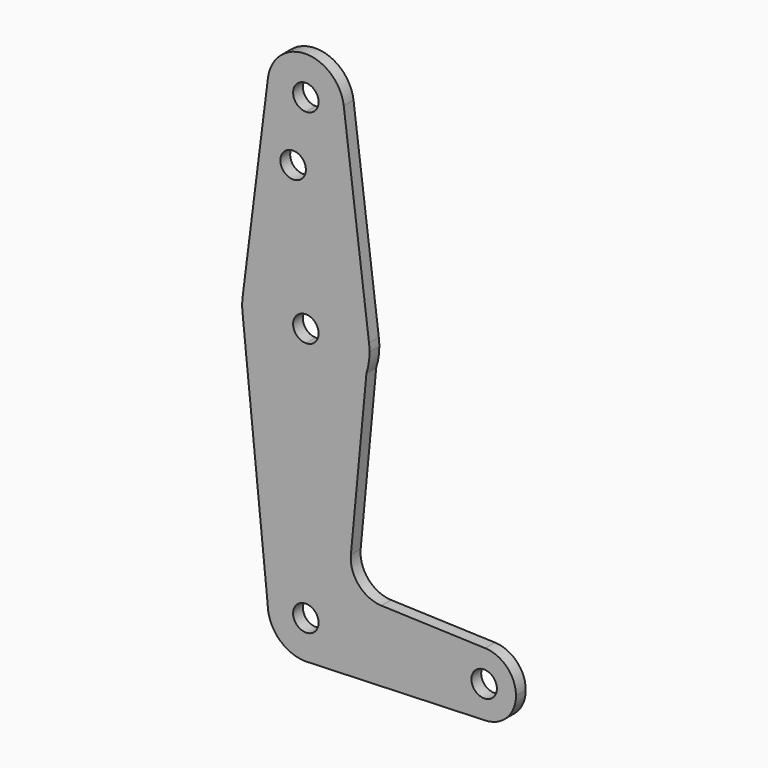
from build123d import *

# Parameters (mm, degrees)
F0_R     = 3.175
F1_DEPTH = 3.048


with BuildPart() as f1:
    # F0 (on Front) → F1 (new body)
    with BuildSketch(Plane.XZ):
        with BuildLine():
            ThreePointArc((3.175, 0), (-2.2450640303, -2.2450640303), (0, 3.175))
            Line((0, 3.175), (0, 9.525))
            ThreePointArc((0, 9.525), (-6.7351920908, 6.7351920908), (-9.525, 0))
            ThreePointArc((-9.525, 0), (-6.7351920908, -6.7351920908), (0, -9.525))
            Line((0, -9.525), (0.6773435479, -9.500885786))
            ThreePointArc((0.6773435479, -9.500885786), (6.9705567315, -6.4912990883), (9.525, 0))
            Line((9.525, 0), (3.175, 0))
        make_face()
        with BuildLine():
            ThreePointArc((-9.525, 0), (-6.7351920908, 6.7351920908), (0, 9.525))
            Line((0, 9.525), (0, 47.625))
            ThreePointArc((0, 47.625), (-10.5003255158, 51.59375), (-15.7504882737, 61.515625))
            Line((-15.7504882737, 61.515625), (-9.525, 0))
        make_face()
        with BuildLine():
            Line((0, 47.625), (0, 9.525))
            ThreePointArc((0, 9.525), (6.7351920908, 6.7351920908), (9.525, 0))
            Line((9.525, 0), (36.5125, 0))
            ThreePointArc((36.5125, 0), (38.9380895153, 5.7116327839), (44.7324052746, 7.9324746146))
            Line((44.7324052746, 7.9324746146), (18.8562403874, 8.8536960246))
            ThreePointArc((18.8562403874, 8.8536960246), (13.1648917084, 11.5534317224), (11.2241018594, 17.546207155))
            Line((11.2241018594, 17.546207155), (15.1007031189, 58.6026139305))
            ThreePointArc((15.1007031189, 58.6026139305), (9.3346028611, 50.6594075516), (0, 47.625))
        make_face()
        with BuildLine():
            Line((36.5125, 0), (9.525, 0))
            ThreePointArc((9.525, 0), (6.9705567315, -6.4912990883), (0.6773435479, -9.500885786))
            Line((0.6773435479, -9.500885786), (44.7324052746, -7.9324746146))
            ThreePointArc((44.7324052746, -7.9324746146), (38.9380895153, -5.7116327839), (36.5125, 0))
        make_face()
        with BuildLine():
            ThreePointArc((-15.7504882737, 61.515625), (-10.5003255158, 51.59375), (0, 47.625))
            Line((0, 47.625), (0, 60.325))
            ThreePointArc((0, 60.325), (-3.175, 63.5), (0, 66.675))
            Line((0, 66.675), (0, 79.375))
            ThreePointArc((0, 79.375), (-10.5003255158, 75.40625), (-15.7504882737, 65.484375))
            ThreePointArc((-15.7504882737, 65.484375), (-15.875, 63.5), (-15.7504882737, 61.515625))
        make_face()
        with BuildLine():
            Line((0, 60.325), (0, 47.625))
            ThreePointArc((0, 47.625), (9.3346028611, 50.6594075516), (15.1007031189, 58.6026139305))
            Line((15.1007031189, 58.6026139305), (15.7504882737, 65.484375))
            ThreePointArc((15.7504882737, 65.484375), (10.5003255158, 75.40625), (0, 79.375))
            Line((0, 79.375), (0, 66.675))
            ThreePointArc((0, 66.675), (2.2450640303, 65.7450640303), (3.175, 63.5))
            ThreePointArc((3.175, 63.5), (2.2450640303, 61.2549359697), (0, 60.325))
        make_face()
        with BuildLine():
            ThreePointArc((44.7324052746, 7.9324746146), (38.9380895153, 5.7116327839), (36.5125, 0))
            ThreePointArc((36.5125, 0), (38.9380895153, -5.7116327839), (44.7324052746, -7.9324746146))
            ThreePointArc((44.7324052746, -7.9324746146), (50.1616327839, -5.5119104847), (52.3875, 0))
            ThreePointArc((52.3875, 0), (50.1616327839, 5.5119104847), (44.7324052746, 7.9324746146))
        make_face()
        with BuildLine():
            ThreePointArc((47.625, 0), (44.45, -3.175), (41.275, 0))
            ThreePointArc((41.275, 0), (44.45, 3.175), (47.625, 0))
        make_face(mode=Mode.SUBTRACT)
        with BuildLine():
            ThreePointArc((0, -9.525), (0.3388863295, -9.5189695375), (0.6773435479, -9.500885786))
            Line((0.6773435479, -9.500885786), (0, -9.525))
        make_face()
        with BuildLine():
            Line((15.7504882737, 65.484375), (15.1007031189, 58.6026139305))
            ThreePointArc((15.1007031189, 58.6026139305), (15.6802309775, 61.020890988), (15.875, 63.5))
            ThreePointArc((15.875, 63.5), (15.8438414904, 64.4941387366), (15.7504882737, 65.484375))
        make_face()
        with BuildLine():
            Line((-9.4502929642, 115.490625), (-15.7504882737, 65.484375))
            ThreePointArc((-15.7504882737, 65.484375), (-10.5003255158, 75.40625), (0, 79.375))
            Line((0, 79.375), (0, 98.4020084143))
            Line((0, 98.4020084143), (0, 104.775))
            ThreePointArc((0, 104.775), (-7.14375, 107.9998046905), (-9.4502929642, 115.490625))
        make_face()
        with Locations((-3.175, 98.4020084143)):
            Circle(F0_R, mode=Mode.SUBTRACT)
        with BuildLine():
            ThreePointArc((0, 79.375), (10.5003255158, 75.40625), (15.7504882737, 65.484375))
            Line((15.7504882737, 65.484375), (9.4502929642, 115.490625))
            ThreePointArc((9.4502929642, 115.490625), (9.5063048942, 114.896483242), (9.525, 114.3))
            ThreePointArc((9.525, 114.3), (6.7351920908, 107.5648079092), (0, 104.775))
            Line((0, 104.775), (0, 98.4020084143))
            Line((0, 98.4020084143), (0, 79.375))
        make_face()
        with BuildLine():
            ThreePointArc((9.4502929642, 115.490625), (0, 123.825), (-9.4502929642, 115.490625))
            ThreePointArc((-9.4502929642, 115.490625), (-7.14375, 107.9998046905), (0, 104.775))
            ThreePointArc((0, 104.775), (6.7351920908, 107.5648079092), (9.525, 114.3))
            ThreePointArc((9.525, 114.3), (9.5063048942, 114.896483242), (9.4502929642, 115.490625))
        make_face()
        with BuildLine():
            ThreePointArc((3.175, 114.3), (2.2450640303, 112.0549359697), (0, 111.125))
            ThreePointArc((0, 111.125), (-2.2450640303, 116.5450640303), (3.175, 114.3))
        make_face(mode=Mode.SUBTRACT)
        with BuildLine():
            Line((0, 9.525), (0, 3.175))
            ThreePointArc((0, 3.175), (2.2450640303, 2.2450640303), (3.175, 0))
            Line((3.175, 0), (9.525, 0))
            ThreePointArc((9.525, 0), (6.7351920908, 6.7351920908), (0, 9.525))
        make_face()
    extrude(amount=F1_DEPTH)


solid = f1.part
